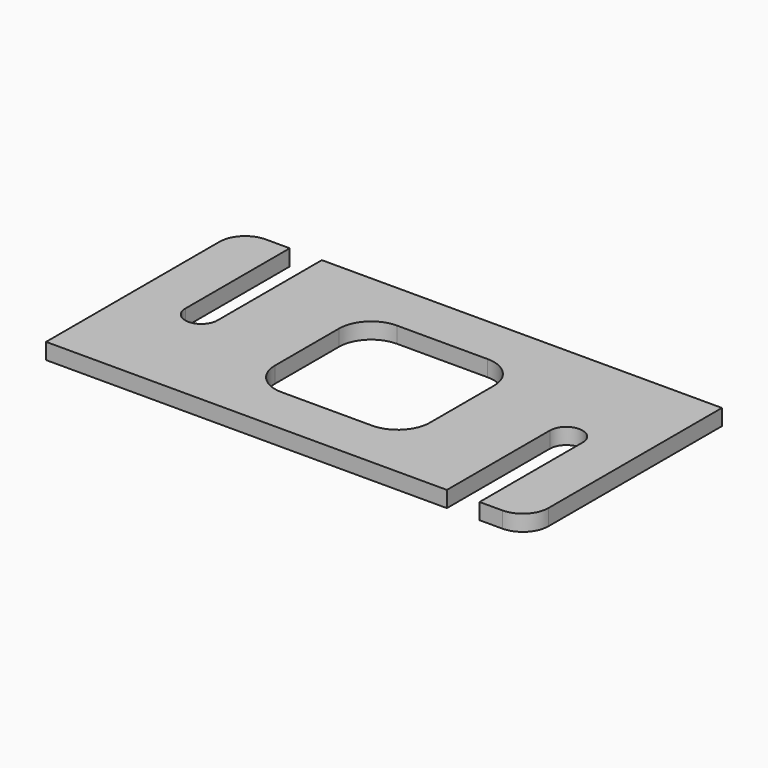
from build123d import *

# Parameters (mm, degrees)
F0_W     = 150.041418
F0_H     = 75.48475
F1_DEPTH = 5
F3_DEPTH = 9.8
F5_DEPTH = 15.9
F6_W     = 48.215222
F6_H     = 44.908039
F7_DEPTH = 12.5
F8_R     = 10
F9_R     = 8


with BuildPart() as f1:
    # F0 (on Top) → F1 (new body)
    with BuildSketch(Plane.XY):
        with Locations((84.918297, -45.505845)):
            Rectangle(F0_W, F0_H)
    extrude(amount=F1_DEPTH)

    # F2 (on face) → F3 (cut)
    with BuildSketch(Plane(origin=(0, 0, 0), x_dir=(1, 0, 0), z_dir=(0, 0, -1))):
        Polygon((144.867465, 78.199215), (144.867465, 83.24822), (134.695292, 83.24822), (134.695292, 43.163463), (144.867465, 43.163463), align=None)
        with BuildLine():
            ThreePointArc((134.695292, 43.163463), (139.781378, 38.077377), (144.867465, 43.163463))
            Line((144.867465, 43.163463), (134.695292, 43.163463))
        make_face()
    extrude(amount=-F3_DEPTH, mode=Mode.SUBTRACT)

    # F4 (on face) → F5 (cut)
    with BuildSketch(Plane.XY.offset(5)):
        Polygon((35.375342, -7.76347), (25.374779, -7.76347), (25.374779, -10.515515), (25.374779, -48.407745), (35.375342, -48.407745), align=None)
        with BuildLine():
            Line((35.375342, -48.407745), (25.374779, -48.407745))
            ThreePointArc((25.374779, -48.407745), (30.375061, -53.408026), (35.375342, -48.407745))
        make_face()
    extrude(amount=-F5_DEPTH, mode=Mode.SUBTRACT)

    # F6 (on face) → F7 (cut)
    with BuildSketch(Plane.XY.offset(5)):
        with Locations((85.245358, -45.718584)):
            Rectangle(F6_W, F6_H)
    extrude(amount=-F7_DEPTH, mode=Mode.SUBTRACT)

    # F8
    f8_edges = [f1.edges().sort_by_distance(p)[0] for p in [
        (109.352969, -23.264565, 2.5),
        (61.137747, -68.172604, 2.5),
        (109.352969, -68.172604, 2.5),
        (61.137747, -23.264565, 2.5),
    ]]
    fillet(f8_edges, radius=F8_R)

    # F9
    f9_edges = [f1.edges().sort_by_distance(p)[0] for p in [
        (9.897588, -7.76347, 2.5),
        (159.939006, -83.24822, 2.5),
    ]]
    fillet(f9_edges, radius=F9_R)


solid = f1.part
